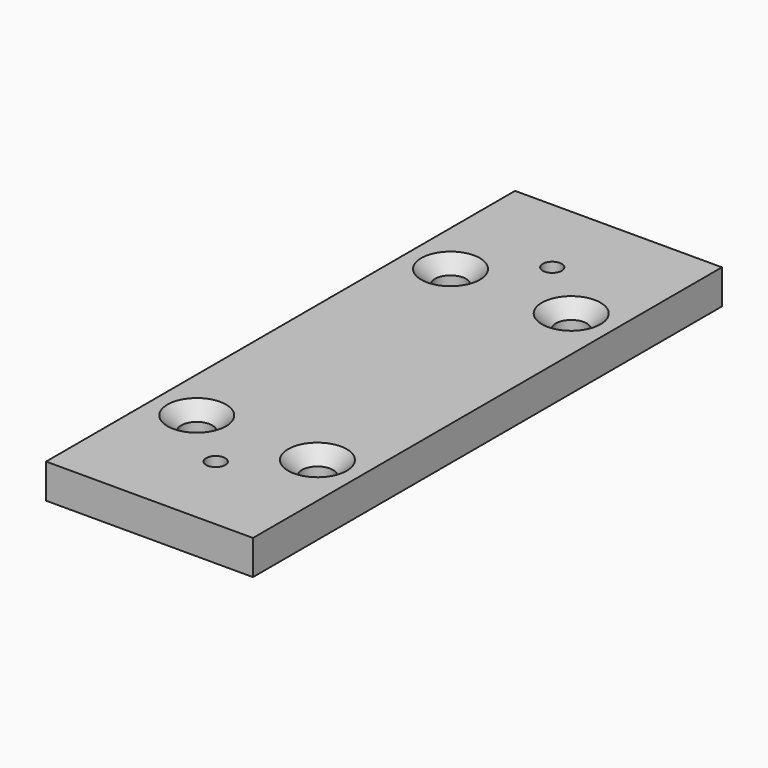
from build123d import *

# Parameters (mm, degrees)
F0_W     = 60
F0_H     = 170
F0_R     = 4.5
F0_R_2   = 2.75
F1_DEPTH = 10
F2_SIZE  = 4


with BuildPart() as f1:
    # F0 (on Top) → F1 (new body)
    with BuildSketch(Plane.XY):
        with Locations((-2.776433, 85)):
            Rectangle(F0_W, F0_H)
        with Locations((-20.276433, 39)):
            Circle(F0_R, mode=Mode.SUBTRACT)
        with Locations((-2.776433, 24)):
            Circle(F0_R_2, mode=Mode.SUBTRACT)
        with Locations((14.723567, 39)):
            Circle(F0_R, mode=Mode.SUBTRACT)
        with Locations((-20.276433, 131)):
            Circle(F0_R, mode=Mode.SUBTRACT)
        with Locations((-2.776433, 146)):
            Circle(F0_R_2, mode=Mode.SUBTRACT)
        with Locations((14.723567, 131)):
            Circle(F0_R, mode=Mode.SUBTRACT)
    extrude(amount=F1_DEPTH)

    # F2
    f2_edges = [f1.edges().sort_by_distance(p)[0] for p in [
        (-24.776433, 39, 10),
        (10.223567, 39, 10),
        (10.223567, 131, 10),
        (-24.776433, 131, 10),
    ]]
    chamfer(f2_edges, length=F2_SIZE)


solid = f1.part
